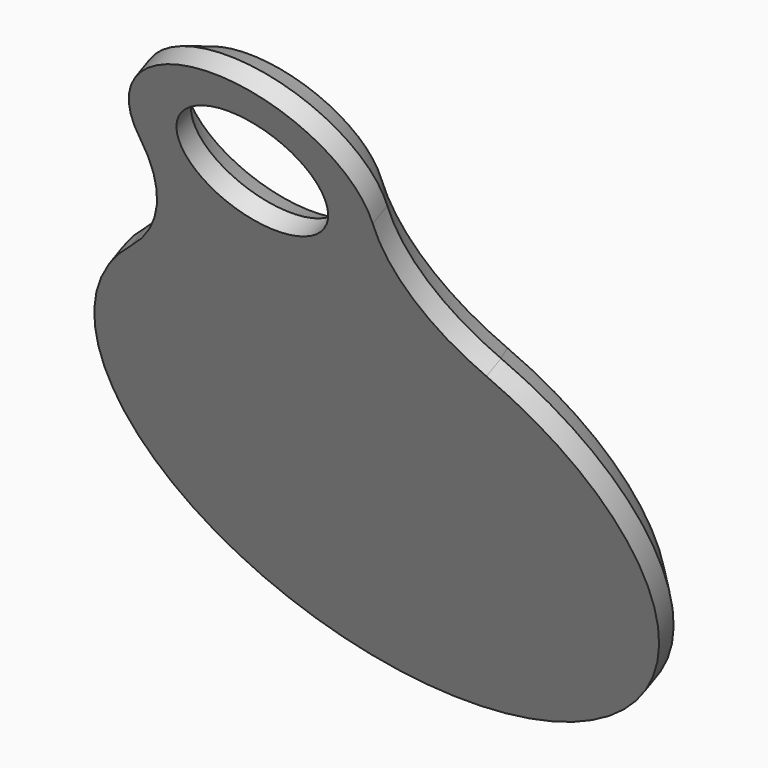
from build123d import *

# Parameters (mm, degrees)
PAD_DEPTH            = 1.2
CHAMFER_SIZE         = 0.6
BODY_PLACEMENT_ANGLE = 25


with BuildPart() as part:
    # Sketch027 → Pad (new body)
    with BuildSketch(Plane.XZ):
        with BuildLine():
            ThreePointArc((-5.306735, -5.013468), (0, -19), (5.306735, -5.013468))
            ThreePointArc((3.482545, -0.349116), (3.832911, -2.90098), (5.306735, -5.013468))
            ThreePointArc((3.482545, -0.349116), (0, 3.5), (-3.482545, -0.349116))
            ThreePointArc((-5.306735, -5.013468), (-3.832911, -2.90098), (-3.482545, -0.349116))
        make_face()
    extrude(amount=PAD_DEPTH)

    # Sketch030 → Groove (revolve, cut)
    with BuildSketch(Plane.YZ):
        Polygon((0, 2.75), (-0.6, 2.15), (-1.2, 2.15), (-1.2, 0), (0, 0), align=None)
    revolve(axis=Axis((0, 0, 0), (0, 1, 0)), mode=Mode.SUBTRACT)

    # Chamfer
    chamfer_edges = [part.edges().sort_by_distance(p)[0] for p in [
        (0, 0, -19),
    ]]
    chamfer(chamfer_edges, length=CHAMFER_SIZE)


with BuildPart() as part_1:
    # Body placement: moved
    add(part.part.moved(Location((-16, 98.75, 37.54))).rotate(Axis((-16, 98.75, 37.54), (1, 0, 0)), BODY_PLACEMENT_ANGLE))


solid = part_1.part
